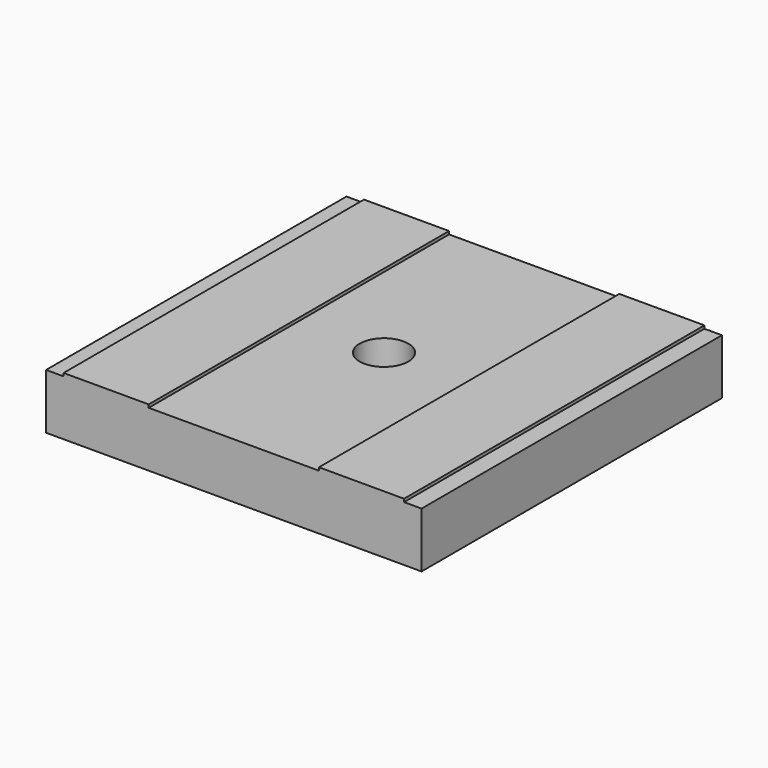
from build123d import *

# Parameters (mm, degrees)
F0_W     = 98.044
F0_H     = 98.044
F1_DEPTH = 15.24
F3_D     = 12.7
F2_W     = 4.572
F2_H     = 98.044
F2_W_2   = 44.45
F4_DEPTH = 0.7874


with BuildPart() as f1:
    # F0 (on Top) → F1 (new body)
    with BuildSketch(Plane.XY):
        Rectangle(F0_W, F0_H)
    extrude(amount=F1_DEPTH)

    # F3 (through all)
    with Locations(Plane.XY.offset(15.24)):
        with Locations((0, 0)):
            Hole(F3_D / 2)

    # F2 (on face) → F4 (cut)
    with BuildSketch(Plane.XY.offset(15.24)):
        with Locations((-46.736, 0)):
            Rectangle(F2_W, F2_H)
        with Locations((46.736, 0)):
            Rectangle(F2_W, F2_H)
        Rectangle(F2_W_2, F2_H)
    extrude(amount=-F4_DEPTH, mode=Mode.SUBTRACT)


solid = f1.part
